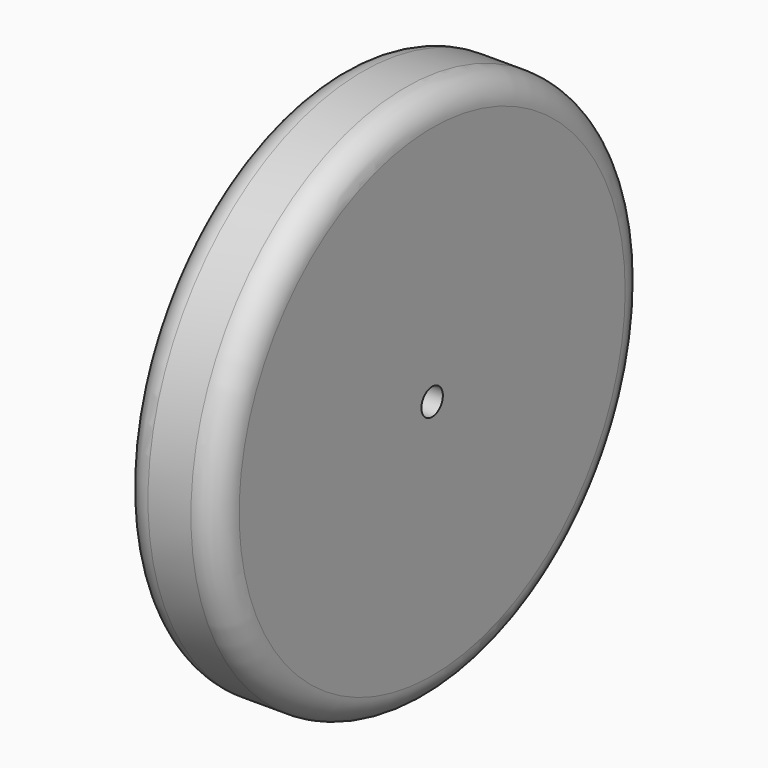
from build123d import *

# Parameters (mm, degrees)
F0_R     = 50
F1_DEPTH = 18
F2_R     = 5
F3_D     = 5


with BuildPart() as f1:
    # F0 (on Right) → F1 (new body)
    with BuildSketch(Plane.YZ):
        Circle(F0_R)
    extrude(amount=F1_DEPTH)

    # F2
    f2_edges = [f1.edges().sort_by_distance(p)[0] for p in [
        (18, -50, 0),
        (0, -50, 0),
    ]]
    fillet(f2_edges, radius=F2_R)

    # F3 (through all)
    with Locations(Plane(origin=(0, 0, 0), x_dir=(0, 1, 0), z_dir=(-1, 0, 0))):
        with Locations((0, 0)):
            Hole(F3_D / 2)


solid = f1.part
